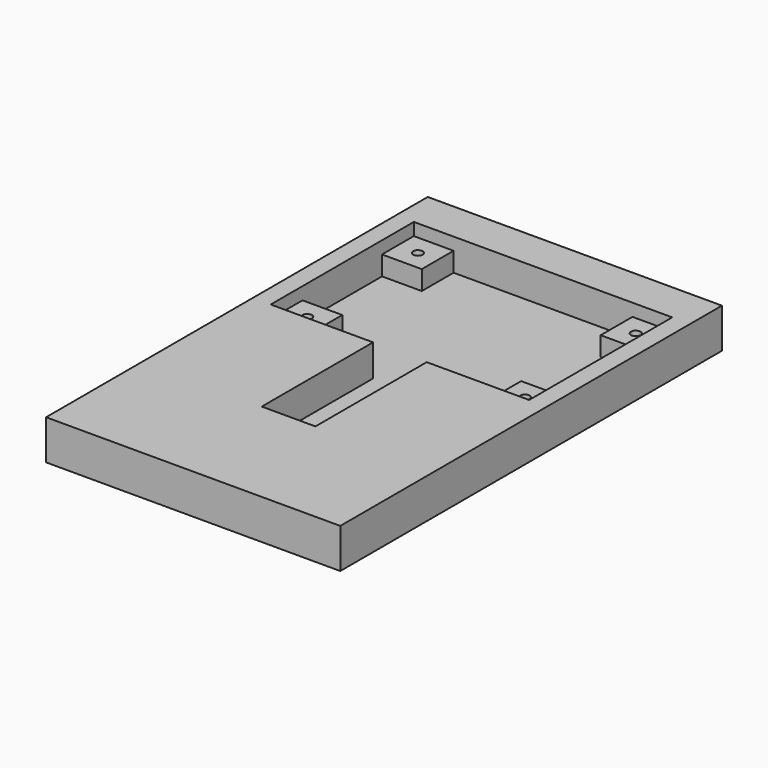
from build123d import *

# Parameters (mm, degrees)
F0_W      = 93.98
F0_H      = 152.4
F1_DEPTH  = 12.7
F2_W      = 82.55
F2_H      = 57.15
F3_DEPTH  = 10.16
F5_W      = 12.7
F5_H      = 12.7
F6_DEPTH  = 6.1722
F7_R      = 1.524
F8_DEPTH  = 6.1722
F9_W      = 17.145
F9_H      = 50.8
F10_DEPTH = 10.16


with BuildPart() as f1:
    # F0 (on Top) → F1 (new body)
    with BuildSketch(Plane.XY):
        with Locations((46.99, 76.2)):
            Rectangle(F0_W, F0_H)
    extrude(amount=-F1_DEPTH)

    # F2 (on Top) → F3 (cut)
    with BuildSketch(Plane.XY):
        with Locations((46.99, 111.125)):
            Rectangle(F2_W, F2_H)
    extrude(amount=-F3_DEPTH, mode=Mode.SUBTRACT)

    # F5 (on face) → F6 (join)
    with BuildSketch(Plane.XY.offset(-10.16)):
        with Locations((12.065, 133.35)):
            Rectangle(F5_W, F5_H)
        with Locations((81.915, 133.35)):
            Rectangle(F5_W, F5_H)
        with Locations((12.065, 88.9)):
            Rectangle(F5_W, F5_H)
        with Locations((81.915, 88.9)):
            Rectangle(F5_W, F5_H)
    extrude(amount=F6_DEPTH)

    # F7 (on face) → F8 (cut)
    with BuildSketch(Plane.XY.offset(-3.9878)):
        with Locations((12.192, 133.223)):
            Circle(F7_R)
        with Locations((81.788, 133.223)):
            Circle(F7_R)
        with Locations((12.192, 89.027)):
            Circle(F7_R)
        with Locations((81.788, 89.027)):
            Circle(F7_R)
    extrude(amount=-F8_DEPTH, mode=Mode.SUBTRACT)

    # F9 (on face) → F10 (cut)
    with BuildSketch(Plane.XY):
        with Locations((46.99, 63.5)):
            Rectangle(F9_W, F9_H)
    extrude(amount=-F10_DEPTH, mode=Mode.SUBTRACT)


solid = f1.part
